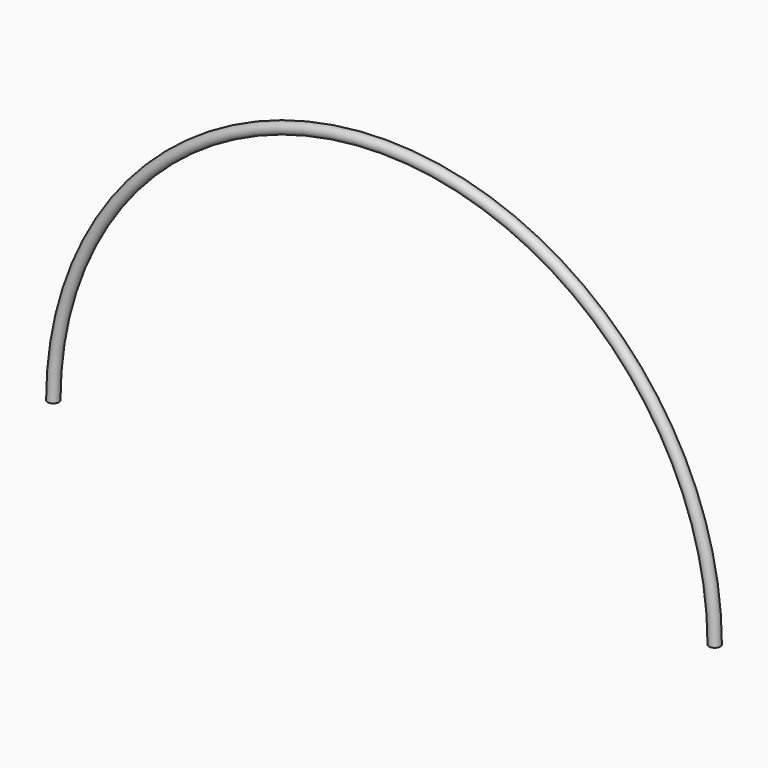
from build123d import *

# Parameters (mm, degrees)
F1_R = 2.38125
F3_R = 1.190625
F5_R = 0.79375


with BuildPart() as f2:
    # F2: sweep along a path in F0
    with BuildLine(Plane.XZ) as f2_path:
        ThreePointArc((-139.7, 0), (0, 139.7), (139.7, 0))
    # F1 (on Top) → F2 (sweep)
    with BuildSketch(Plane.XY):
        with Locations((-139.867246, 0)):
            Circle(F1_R)
    sweep(path=f2_path.line)

    # F4: sweep along a path in F0
    with BuildLine(Plane.XZ) as f4_path:
        ThreePointArc((-139.7, 0), (0, 139.7), (139.7, 0))
    # F3 (on Top) → F4 (sweep, cut)
    with BuildSketch(Plane.XY):
        with Locations((-139.682785, 0)):
            Circle(F3_R)
    sweep(path=f4_path.line, mode=Mode.SUBTRACT)


with BuildPart() as f6:
    # F6: sweep along a path in F0
    with BuildLine(Plane.XZ) as f6_path:
        ThreePointArc((-139.7, 0), (0, 139.7), (139.7, 0))
    # F5 (on face) → F6 (sweep)
    with BuildSketch(Plane(origin=(0, 0, 0), x_dir=(1, 0, 0), z_dir=(0, 0, -1))):
        with Locations((-139.682785, 0)):
            Circle(F5_R)
    sweep(path=f6_path.line)


solid = Compound([f2.part, f6.part])
